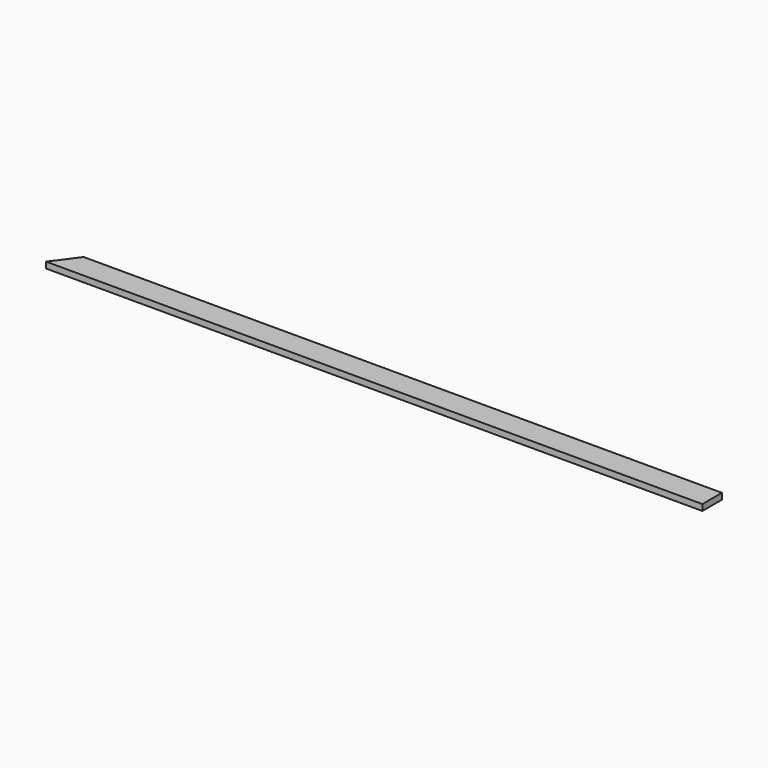
from build123d import *

# Parameters (mm, degrees)
F1_DEPTH = 0.57912
F2_R     = 0.1778
F3_DEPTH = 0.254


with BuildPart() as f1:
    # F0 (on Top) → F1 (new body)
    with BuildSketch(Plane.XY):
        Polygon((30.325108, 4.368319), (-30.203092, 4.368319), (-31.904892, 2.051839), (30.325108, 2.051839), align=None)
    extrude(amount=F1_DEPTH)

    # F2 (on face) → F3 (join)
    with BuildSketch(Plane(origin=(0, 0, 0), x_dir=(1, 0, 0), z_dir=(0, 0, -1))):
        with Locations((-30.270886, -2.811116)):
            Circle(F2_R)
        with Locations((-28.443748, -3.277619)):
            Circle(F2_R)
        with Locations((29.493796, -2.753267)):
            Circle(F2_R)
        with Locations((27.490465, -3.462138)):
            Circle(F2_R)
    extrude(amount=F3_DEPTH)


solid = f1.part
